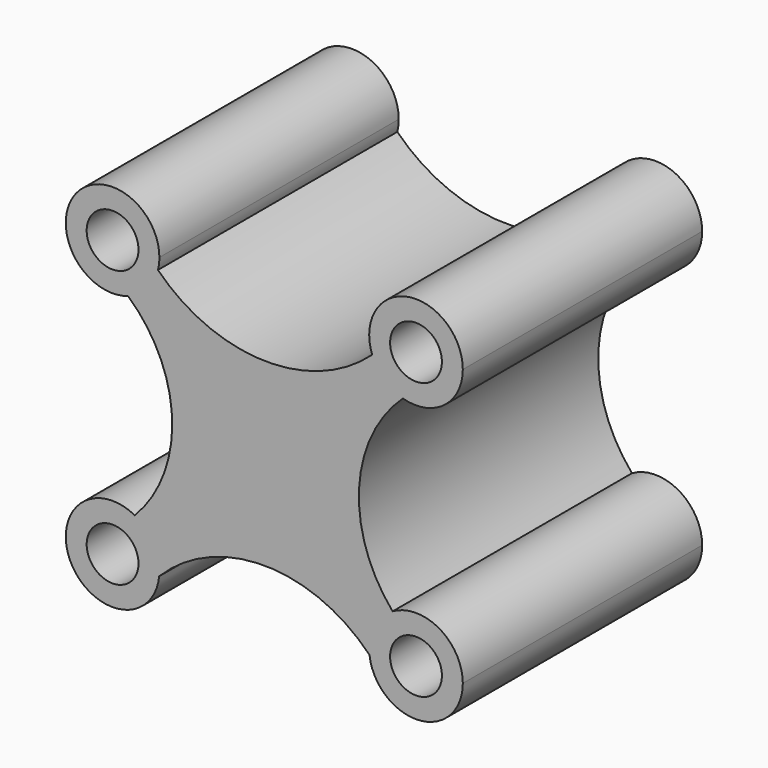
from build123d import *

# Parameters (mm, degrees)
F0_R     = 2.199524
F1_DEPTH = 25.4


with BuildPart() as f1:
    # F0 (on Front) → F1 (new body)
    with BuildSketch(Plane.XZ):
        with BuildLine():
            ThreePointArc((-11.566241, 7.977341), (-9.949435, 9.043299), (-9.028414, 10.746839))
            ThreePointArc((-9.028414, 10.746839), (-8.936246, 11.233619), (-8.905364, 11.728085))
            ThreePointArc((-8.905364, 11.728085), (-16.120469, 14.027451), (-11.566241, 7.977341))
        make_face()
        with Locations((-12.879306, 11.728085)):
            Circle(F0_R, mode=Mode.SUBTRACT)
        with BuildLine():
            ThreePointArc((9.160321, 10.327597), (-0.017937, 6.897642), (-9.028414, 10.746839))
            ThreePointArc((-9.028414, 10.746839), (-9.949435, 9.043299), (-11.566241, 7.977341))
            ThreePointArc((-11.566241, 7.977341), (-7.823792, -0.003878), (-10.998232, -8.227545))
            ThreePointArc((-10.998232, -8.227545), (-9.468478, -9.688852), (-8.905364, -11.728085))
            ThreePointArc((-8.905364, -11.728085), (-8.909947, -11.918878), (-8.923684, -12.109232))
            ThreePointArc((-8.923684, -12.109232), (0.017868, -8.401069), (8.930846, -12.177395))
            ThreePointArc((8.930846, -12.177395), (9.331227, -9.938293), (10.894039, -8.285566))
            ThreePointArc((10.894039, -8.285566), (8.047392, -0.009584), (11.764413, 7.913739))
            ThreePointArc((11.764413, 7.913739), (10.177775, 8.813647), (9.160321, 10.327597))
        make_face()
        with BuildLine():
            ThreePointArc((16.853249, 11.728085), (12.167553, 15.637768), (9.160321, 10.327597))
            ThreePointArc((9.160321, 10.327597), (10.177775, 8.813647), (11.764413, 7.913739))
            ThreePointArc((11.764413, 7.913739), (15.26276, 8.548246), (16.853249, 11.728085))
        make_face()
        with Locations((12.879306, 11.728085)):
            Circle(F0_R, mode=Mode.SUBTRACT)
        with BuildLine():
            ThreePointArc((-8.905364, -11.728085), (-9.468478, -9.688852), (-10.998232, -8.227545))
            ThreePointArc((-10.998232, -8.227545), (-16.384108, -13.601207), (-8.923684, -12.109232))
            ThreePointArc((-8.923684, -12.109232), (-8.909947, -11.918878), (-8.905364, -11.728085))
        make_face()
        with Locations((-12.879306, -11.728085)):
            Circle(F0_R, mode=Mode.SUBTRACT)
        with BuildLine():
            ThreePointArc((16.853249, -11.728085), (14.867129, -8.287041), (10.894039, -8.285566))
            ThreePointArc((10.894039, -8.285566), (9.331227, -9.938293), (8.930846, -12.177395))
            ThreePointArc((8.930846, -12.177395), (13.104323, -15.695652), (16.853249, -11.728085))
        make_face()
        with Locations((12.879306, -11.728085)):
            Circle(F0_R, mode=Mode.SUBTRACT)
    extrude(amount=F1_DEPTH)


solid = f1.part
